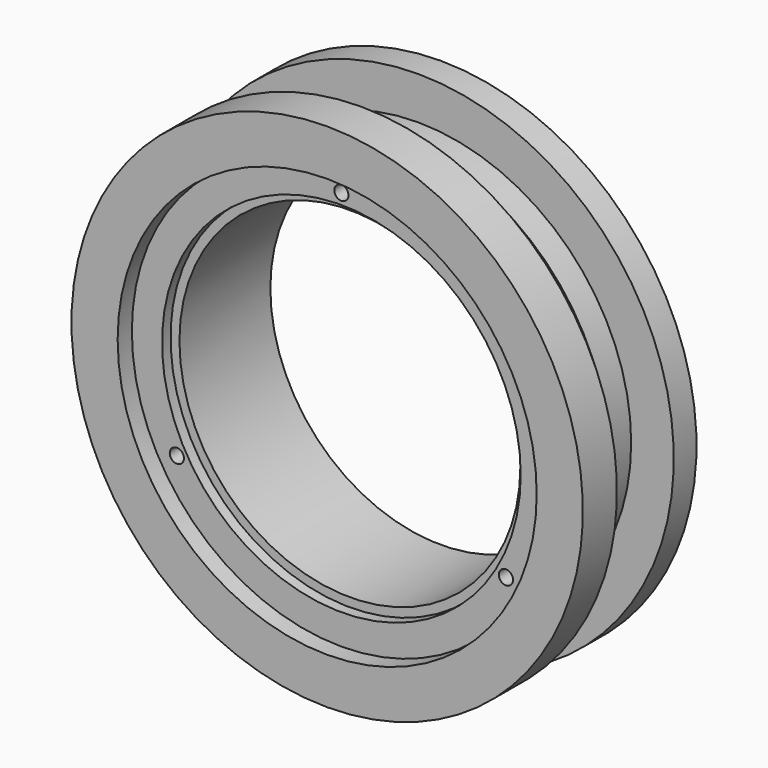
from build123d import *

# Parameters (mm, degrees)
F2_R     = 25.25
F3_DEPTH = 4
F4_R     = 24
F5_DEPTH = 16
F6_R     = 29.5
F6_R_2   = 25.25
F7_DEPTH = 2.5
F9_D     = 2
F9_DEPTH = 5
F9_TIP   = 0.600860619


with BuildPart() as f1:
    # F0 (on Right) → F1 (revolve)
    with BuildSketch(Plane.YZ):
        Polygon((0, 36), (0, 0), (20, 0), (20, 36), (16, 36), (16, 30), (12, 30), (6, 36), align=None)
    revolve(axis=Axis((0, 10, 0), (0, -1, 0)))

    # F2 (on face) → F3 (cut)
    with BuildSketch(Plane.XZ):
        Circle(F2_R)
    extrude(amount=-F3_DEPTH, mode=Mode.SUBTRACT)

    # F4 (on face) → F5 (cut, through all)
    with BuildSketch(Plane.XZ.offset(-4)):
        Circle(F4_R)
    extrude(amount=-F5_DEPTH, mode=Mode.SUBTRACT)

    # F6 (on face) → F7 (cut)
    with BuildSketch(Plane.XZ):
        Circle(F6_R)
        Circle(F6_R_2, mode=Mode.SUBTRACT)
    extrude(amount=-F7_DEPTH, mode=Mode.SUBTRACT)

    # F9
    with Locations(Plane.XZ.offset(-2.5)):
        with Locations((0, 26.75), (23.1661795512, -13.375), (-23.1661795512, -13.375)):
            Hole(F9_D / 2, depth=F9_DEPTH)
            with Locations((0, 0, -(F9_DEPTH + F9_TIP / 2))):  # 118° drill point
                Cone(0, F9_D / 2, F9_TIP, mode=Mode.SUBTRACT)


solid = f1.part
